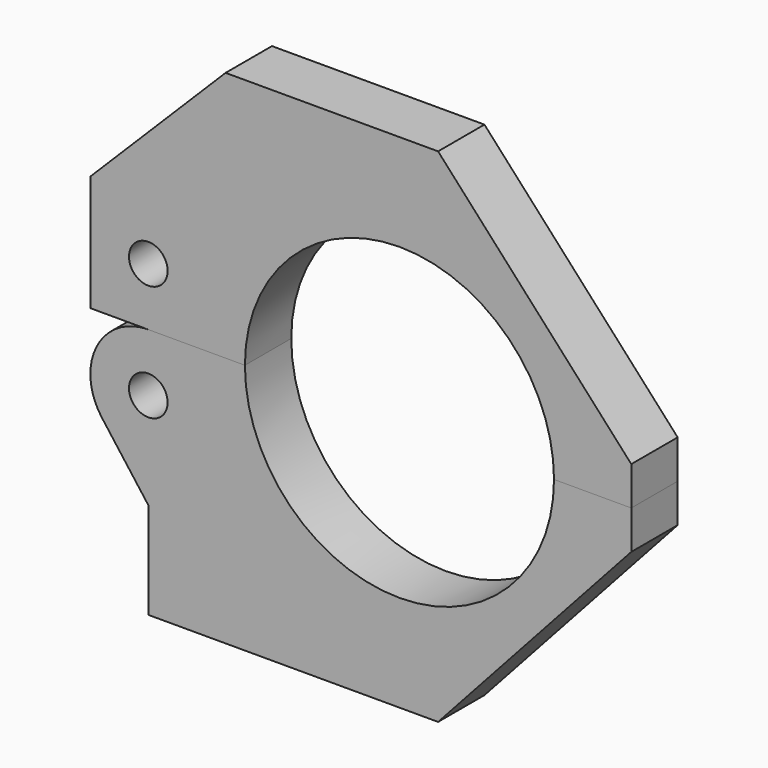
from build123d import *

# Parameters (mm, degrees)
F0_R     = 3.175
F1_DEPTH = 9.525
F2_DEPTH = 9.525


with BuildPart() as f1:
    # F0 (on Front) → F1 (new body)
    with BuildSketch(Plane.XZ):
        with BuildLine():
            Line((10.390909, 7.410393), (23.090909, 7.410393))
            Line((23.090909, 7.410393), (23.090909, 13.760393))
            Line((23.090909, 13.760393), (-8.659091, 48.685393))
            Line((-8.659091, 48.685393), (-43.584091, 48.685393))
            Line((-43.584091, 48.685393), (-65.809091, 26.460393))
            Line((-65.809091, 26.460393), (-65.809091, 7.410393))
            Line((-65.809091, 7.410393), (-56.284091, 7.410393))
            Line((-56.284091, 7.410393), (-40.409091, 7.410393))
            ThreePointArc((-40.409091, 7.410393), (-15.009091, 32.810393), (10.390909, 7.410393))
        make_face()
        with Locations((-56.284091, 16.935393)):
            Circle(F0_R, mode=Mode.SUBTRACT)
    extrude(amount=F1_DEPTH)


with BuildPart() as f2:
    # F0 (on Front) → F2 (new body)
    with BuildSketch(Plane.XZ):
        with BuildLine():
            Line((-56.284091, -17.989607), (-56.284091, -33.864607))
            Line((-56.284091, -33.864607), (-8.659091, -33.864607))
            Line((-8.659091, -33.864607), (23.090909, 1.060393))
            Line((23.090909, 1.060393), (23.090909, 7.410393))
            Line((23.090909, 7.410393), (10.390909, 7.410393))
            ThreePointArc((10.390909, 7.410393), (-15.009091, -17.989607), (-40.409091, 7.410393))
            Line((-40.409091, 7.410393), (-56.284091, 7.410393))
            ThreePointArc((-56.284091, 7.410393), (-64.80351, 2.145103), (-63.904091, -7.829607))
            Line((-63.904091, -7.829607), (-56.284091, -17.989607))
        make_face()
        with Locations((-56.284091, -2.114607)):
            Circle(F0_R, mode=Mode.SUBTRACT)
    extrude(amount=F2_DEPTH)


solid = Compound([f1.part, f2.part])
